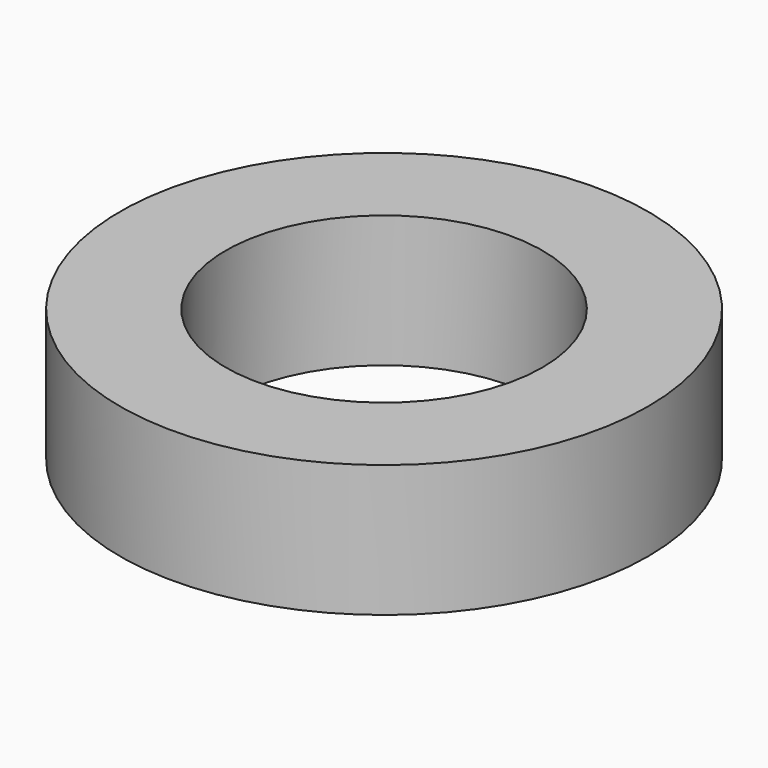
from build123d import *

# Parameters (mm, degrees)
SKETCH_R   = 20
SKETCH_R_2 = 12
PAD_DEPTH  = 10


with BuildPart() as part:
    # Sketch → Pad (new body)
    with BuildSketch(Plane.XY):
        Circle(SKETCH_R)
        Circle(SKETCH_R_2, mode=Mode.SUBTRACT)
    extrude(amount=PAD_DEPTH)


solid = part.part
